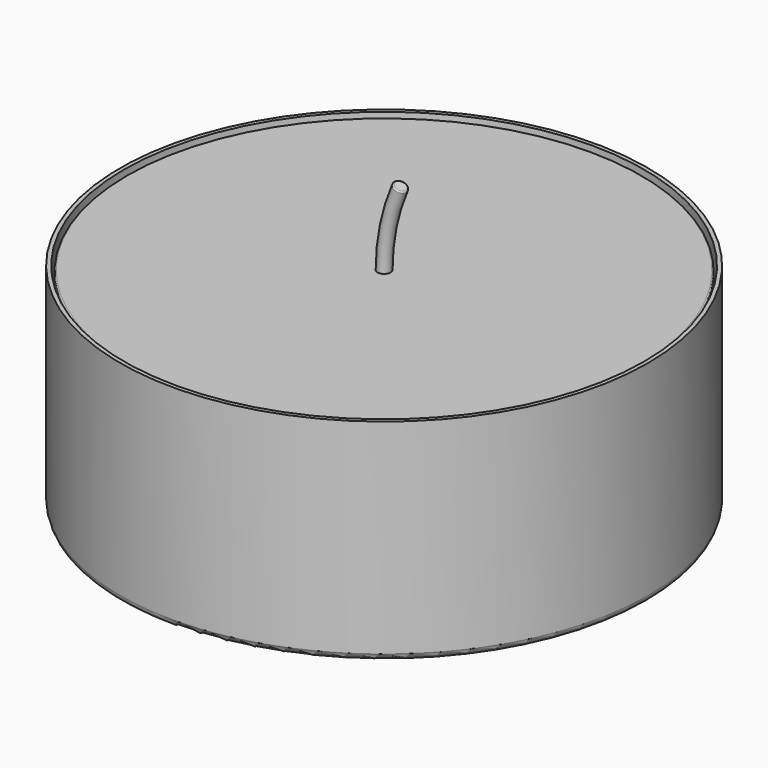
from build123d import *

# Parameters (mm, degrees)
F0_R     = 20
F1_DEPTH = 16
F2_R     = 0.5
F3_T     = -0.3
F4_R     = 19.5
F5_DEPTH = 15.7
F7_R     = 0.5
F9_R     = 0.1
F10_R    = 0.1


with BuildPart() as f1:
    # F0 (on Top) → F1 (new body)
    with BuildSketch(Plane.XY):
        Circle(F0_R)
    extrude(amount=F1_DEPTH)

    # F2
    f2_edges = [f1.edges().sort_by_distance(p)[0] for p in [
        (-20, 0, 0),
    ]]
    fillet(f2_edges, radius=F2_R)

    # F3
    f3_openings = [f1.faces().sort_by_distance(p)[0] for p in [
        (0, 0, 16),
    ]]
    offset(amount=F3_T, openings=f3_openings)


with BuildPart() as f5:
    # F4 (on Top) → F5 (new body)
    with BuildSketch(Plane.XY):
        Circle(F4_R)
    extrude(amount=F5_DEPTH)

    # F10
    f10_edges = [f5.edges().sort_by_distance(p)[0] for p in [
        (-19.5, 0, 15.7),
    ]]
    fillet(f10_edges, radius=F10_R)


with BuildPart() as f8:
    # F8: sweep along a path in F6
    with BuildLine(Plane.XZ) as f8_path:
        ThreePointArc((1.2522729151, 21.7), (0.316405306, 18.7646446553), (0, 15.7))
    # F7 (on face) → F8 (sweep)
    with BuildSketch(Plane.XY.offset(15.7)):
        Circle(F7_R)
    sweep(path=f8_path.line)

    # F9
    f9_edges = [f8.edges().sort_by_distance(p)[0] for p in [
        (0.794015, 0, 21.9),
    ]]
    fillet(f9_edges, radius=F9_R)


solid = Compound([f1.part, f5.part, f8.part])
